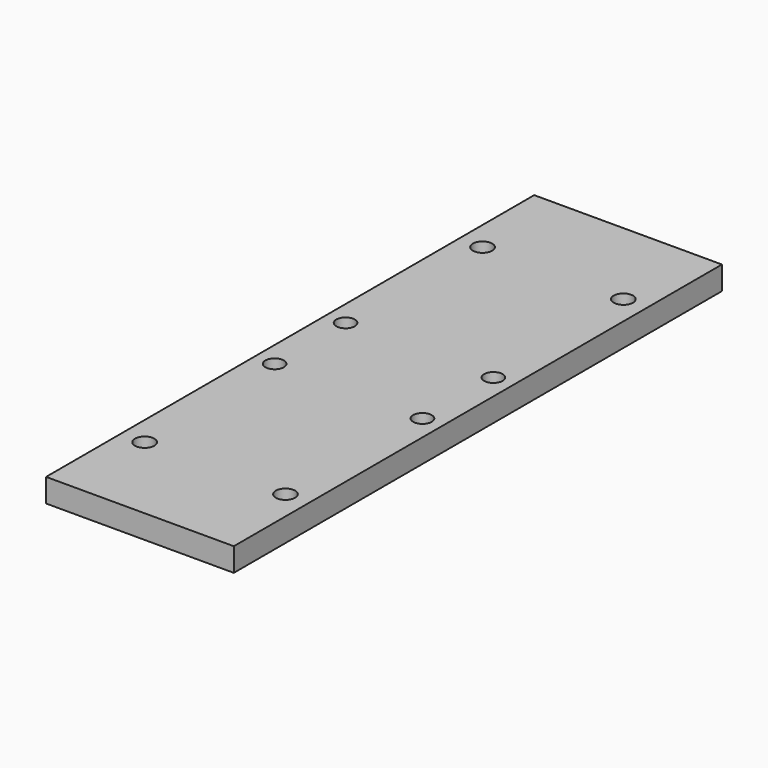
from build123d import *

# Parameters (mm, degrees)
F0_W     = 50.8
F0_H     = 6.35
F1_DEPTH = 165.1
F2_R     = 2.5019
F2_R_2   = 2.6162
F3_DEPTH = 6.351


with BuildPart() as f1:
    # F0 (on Front) → F1 (new body)
    with BuildSketch(Plane.XZ):
        Rectangle(F0_W, F0_H)
    extrude(amount=F1_DEPTH)

    # F2 (on face) → F3 (cut, through all)
    with BuildSketch(Plane.XY.offset(3.175)):
        with Locations((-20.0025, -94.5515)):
            Circle(F2_R)
        with Locations((20.0025, -94.5515)):
            Circle(F2_R)
        with Locations((20.0025, -70.5485)):
            Circle(F2_R)
        with Locations((-20.0025, -70.5485)):
            Circle(F2_R)
        with Locations((-19.05, -139.7)):
            Circle(F2_R_2)
        with Locations((19.05, -139.7)):
            Circle(F2_R_2)
        with Locations((-19.05, -25.4)):
            Circle(F2_R_2)
        with Locations((19.05, -25.4)):
            Circle(F2_R_2)
    extrude(amount=-F3_DEPTH, mode=Mode.SUBTRACT)


solid = f1.part
